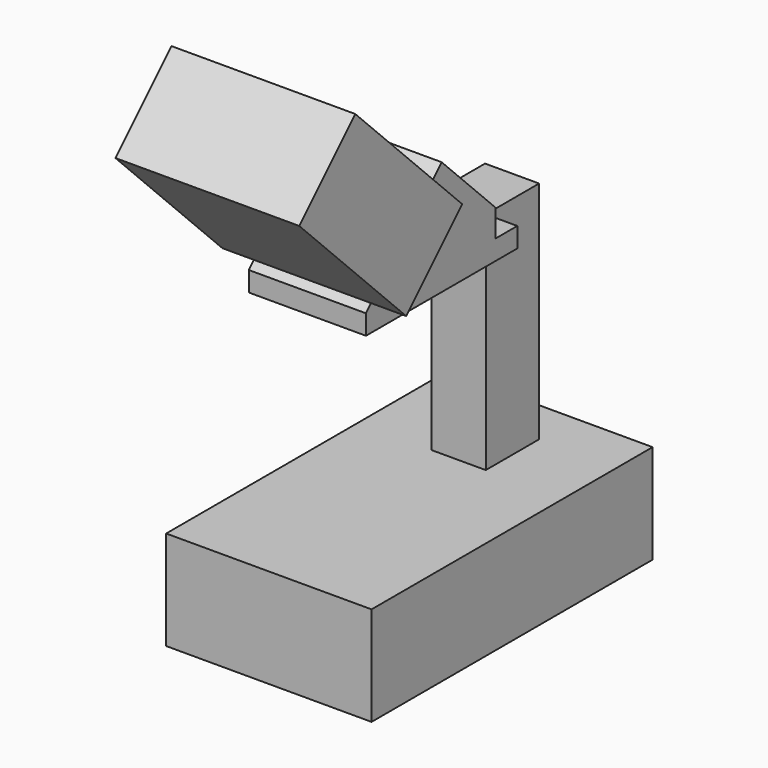
from build123d import *

# Parameters (mm, degrees)
F0_W     = 114
F0_H     = 195
F1_DEPTH = 55
F2_W     = 30
F2_H     = 37
F3_DEPTH = 125
F5_DEPTH = 11
F7_DEPTH = 65
F9_DEPTH = 105


with BuildPart() as f1:
    # F0 (on Top) → F1 (new body)
    with BuildSketch(Plane.XY):
        Rectangle(F0_W, F0_H)
    extrude(amount=F1_DEPTH)

    # F2 (on face) → F3 (join)
    with BuildSketch(Plane.XY.offset(55)):
        with Locations((-1, 54)):
            Rectangle(F2_W, F2_H)
    extrude(amount=F3_DEPTH)

    # F4 (on face) → F5 (join)
    with BuildSketch(Plane.XY.offset(180)):
        Polygon((14, 35.5), (-1, 35.5), (-16, 35.5), (-33.5, 35.5), (-33.5, -69.5), (-1, -69.5), (31.5, -69.5), (31.5, 35.5), align=None)
    extrude(amount=-F5_DEPTH)

    # F6 (on face) → F7 (join, through all)
    with BuildSketch(Plane.YZ.offset(31.5)):
        Polygon((-17, 232.5), (-69.5, 180), (20.5, 180), (20.5, 195), align=None)
    extrude(amount=-F7_DEPTH)

    # F8 (on face) → F9 (join)
    with BuildSketch(Plane(origin=(0, -124.75, 124.75), x_dir=(1, 0, 0), z_dir=(0, -0.707107, 0.707107))):
        Polygon((-51, 83.135299), (-33.5, 83.135299), (0, 83.135299), (33.5, 83.135299), (51, 83.135299), (51, 138.135299), (0, 138.135299), (-51, 138.135299), align=None)
    extrude(amount=F9_DEPTH)


solid = f1.part
